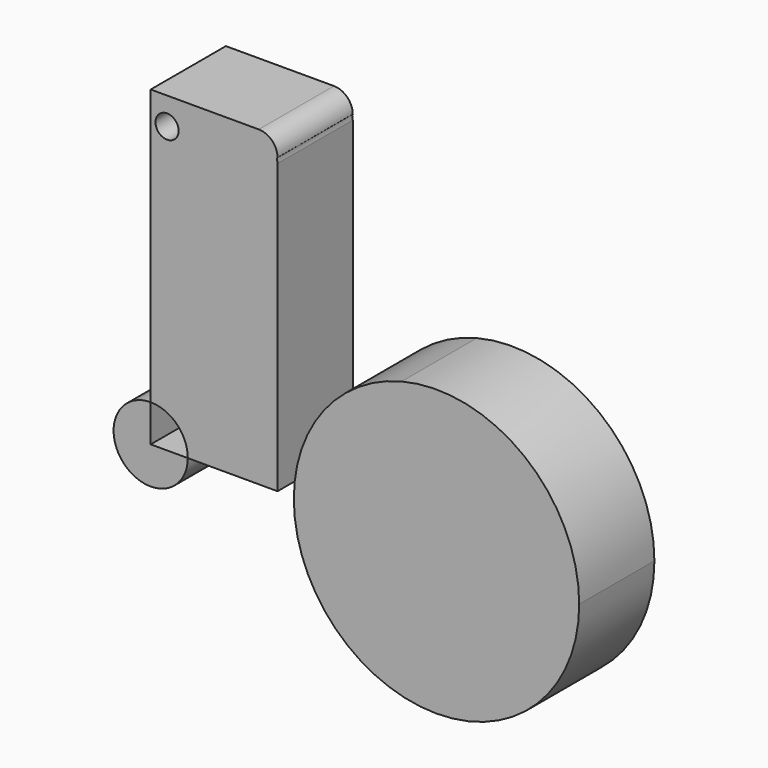
from build123d import *

# Parameters (mm, degrees)
F1_DEPTH = 25
F0_R     = 3.0846782029


with BuildPart() as f1:
    # F0 (on Front) → F1 (new body)
    with BuildSketch(Plane.XZ):
        with BuildLine():
            ThreePointArc((15.940215423, 21.5612740448), (-9.1499095049, 0.8580905451), (-8.9940761195, -31.6705413332))
            ThreePointArc((-8.9940761195, -31.6705413332), (33.6462109509, -52.250752754), (63.177324287, -15.2419358492))
            ThreePointArc((63.177324287, -15.2419358492), (48.5491946598, 14.6989254958), (15.940215423, 21.5612740448))
        make_face()
    extrude(amount=F1_DEPTH)


with BuildPart() as f1b:
    # F0 (on Front) → F1, piece 2 (new body)
    with BuildSketch(Plane.XZ):
        with BuildLine():
            Line((-40.9343125656, -14.8790329695), (-17.0564521104, -14.8790329695))
            Line((-17.0564521104, -14.8790329695), (-17.0564521104, 61.875000596))
            add(Edge.make_bspline(
                [(-17.0564521104, 61.875000596), (-17.1770810796, 62.5084030386), (-17.2974830979, 63.141950965), (-17.0564521104, 63.2258084416)],
                knots=[0, 0, 0, 0, 0.1375026192, 0.1375026192, 0.1375026192, 0.1375026192], degree=3))
            ThreePointArc((-17.0564521104, 63.2258084416), (-18.5209182045, 66.7613423476), (-22.0564521104, 68.2258084416))
            Line((-22.0564521104, 68.2258084416), (-50.8064534515, 68.2258084416))
            Line((-50.8064534515, 68.2258084416), (-50.8064534515, -5.0068920836))
            ThreePointArc((-50.8064534515, -5.0068920836), (-43.8257956863, -7.8983752042), (-40.9343125656, -14.8790329695))
        make_face()
        with Locations((-46.451613307, 60.9677433968)):
            Circle(F0_R, mode=Mode.SUBTRACT)
    extrude(amount=F1_DEPTH)


with BuildPart() as f1c:
    # F0 (on Front) → F1, piece 3 (new body)
    with BuildSketch(Plane.XZ):
        with BuildLine():
            ThreePointArc((-50.8064534515, -5.0068920836), (-57.7871112168, -21.8596907347), (-40.9343125656, -14.8790329695))
            Line((-40.9343125656, -14.8790329695), (-50.8064534515, -14.8790329695))
            Line((-50.8064534515, -14.8790329695), (-50.8064534515, -5.0068920836))
        make_face()
    extrude(amount=F1_DEPTH)


solid = Compound([f1.part, f1b.part, f1c.part])
